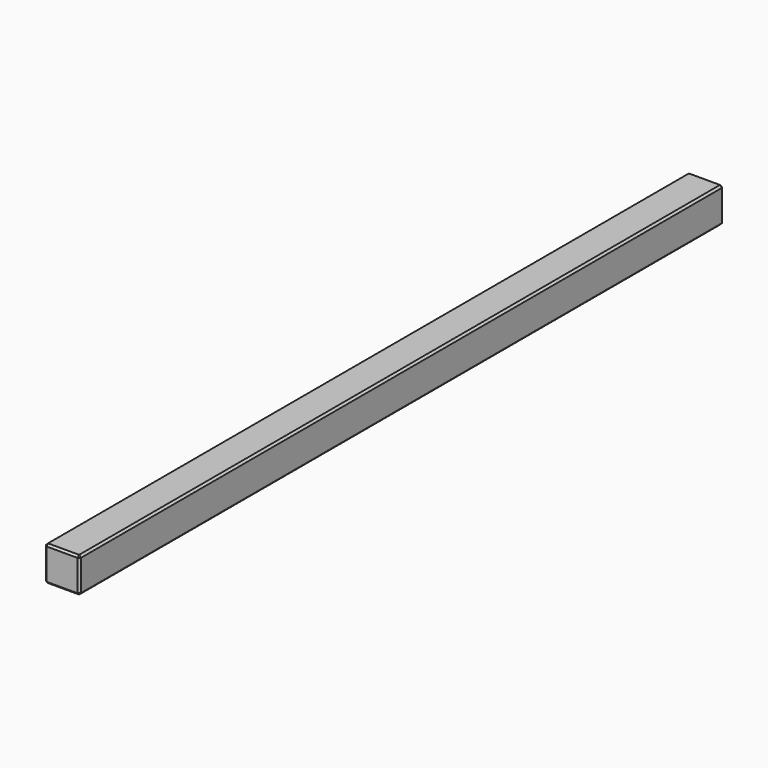
from build123d import *

# Parameters (mm, degrees)
F0_W     = 18
F0_H     = 18
F1_DEPTH = 207
F2_SIZE  = 1


with BuildPart() as f1:
    # F0 (on Front) → F1 (new body, symmetric)
    with BuildSketch(Plane.XZ):
        Rectangle(F0_W, F0_H)
    extrude(amount=F1_DEPTH, both=True)

    # F2
    f2_edges = [f1.edges().sort_by_distance(p)[0] for p in [
        (9, 0, 9),
        (-9, 0, 9),
        (9, 0, -9),
        (0, -207, -9),
        (-9, 0, -9),
        (0, 207, -9),
        (0, 207, 9),
        (0, -207, 9),
        (-9, 207, 0),
        (-9, -207, 0),
        (9, 207, 0),
        (9, -207, 0),
    ]]
    chamfer(f2_edges, length=F2_SIZE)


solid = f1.part
